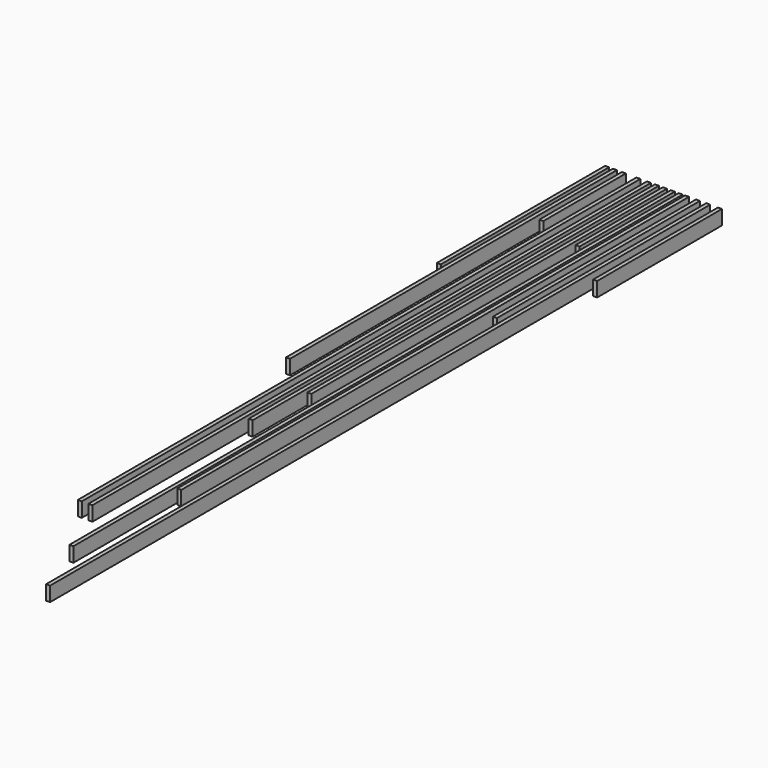
from build123d import *

# Parameters (mm, degrees)
F0_W      = 38.1
F0_H      = 139.7
F1_DEPTH  = 6705.6
F2_DEPTH  = 4876.8
F3_DEPTH  = 4267.2
F4_DEPTH  = 1143
F6_DEPTH  = 7315.2
F7_DEPTH  = 6096
F8_DEPTH  = 2438.4
F9_DEPTH  = 7924.8
F10_DEPTH = 1498.6
F11_DEPTH = 990.6
F12_DEPTH = 3924.3
F13_DEPTH = 2019.3


with BuildPart() as f1:
    # F0 (on Front) → F1 (new body)
    with BuildSketch(Plane.XZ):
        Rectangle(F0_W, F0_H)
    extrude(amount=F1_DEPTH)


with BuildPart() as f2:
    # F0 (on Front) → F2 (new body)
    with BuildSketch(Plane.XZ):
        with Locations((76.2, 0)):
            Rectangle(F0_W, F0_H)
    extrude(amount=F2_DEPTH)


with BuildPart() as f3:
    # F0 (on Front) → F3 (new body)
    with BuildSketch(Plane.XZ):
        with Locations((152.4, 0)):
            Rectangle(F0_W, F0_H)
    extrude(amount=F3_DEPTH)


with BuildPart() as f4:
    # F0 (on Front) → F4 (new body)
    with BuildSketch(Plane.XZ):
        with Locations((228.6, 0)):
            Rectangle(F0_W, F0_H)
    extrude(amount=F4_DEPTH)


with BuildPart() as f5_1:
    # F5: copy of F1
    add(f1.part.moved(Location((-101.6, 0, 0))))


with BuildPart() as f6:
    # F0 (on Front) → F6 (new body)
    with BuildSketch(Plane.XZ):
        with Locations((304.8, 0)):
            Rectangle(F0_W, F0_H)
    extrude(amount=F6_DEPTH)


with BuildPart() as f7:
    # F0 (on Front) → F7 (new body)
    with BuildSketch(Plane.XZ):
        with Locations((365.659682, 0.716353)):
            Rectangle(F0_W, F0_H)
    extrude(amount=F7_DEPTH)


with BuildPart() as f8:
    # F0 (on Front) → F8 (new body)
    with BuildSketch(Plane.XZ):
        with Locations((470.760761, 0.466282)):
            Rectangle(F0_W, F0_H)
    extrude(amount=F8_DEPTH)


with BuildPart() as f9:
    # F0 (on Front) → F9 (new body)
    with BuildSketch(Plane.XZ):
        with Locations((568.752048, 0.716353)):
            Rectangle(F0_W, F0_H)
    extrude(amount=F9_DEPTH)


with BuildPart() as f10:
    # F0 (on Front) → F10 (new body)
    with BuildSketch(Plane.XZ):
        with Locations((681.4602, 0.716353)):
            Rectangle(F0_W, F0_H)
    extrude(amount=F10_DEPTH)


with BuildPart() as f11:
    # F0 (on Front) → F11 (new body)
    with BuildSketch(Plane.XZ):
        with Locations((-240.736917, 1.244623)):
            Rectangle(F0_W, F0_H)
    extrude(amount=F11_DEPTH)


with BuildPart() as f12:
    # F0 (on Front) → F12 (new body)
    with BuildSketch(Plane.XZ):
        with Locations((-327.005418, 1.244622)):
            Rectangle(F0_W, F0_H)
    extrude(amount=F12_DEPTH)


with BuildPart() as f13:
    # F0 (on Front) → F13 (new body)
    with BuildSketch(Plane.XZ):
        with Locations((-402.302953, 0.716353)):
            Rectangle(F0_W, F0_H)
    extrude(amount=F13_DEPTH)


solid = Compound([f1.part, f2.part, f3.part, f4.part, f5_1.part, f6.part, f7.part, f8.part, f9.part, f10.part, f11.part, f12.part, f13.part])
